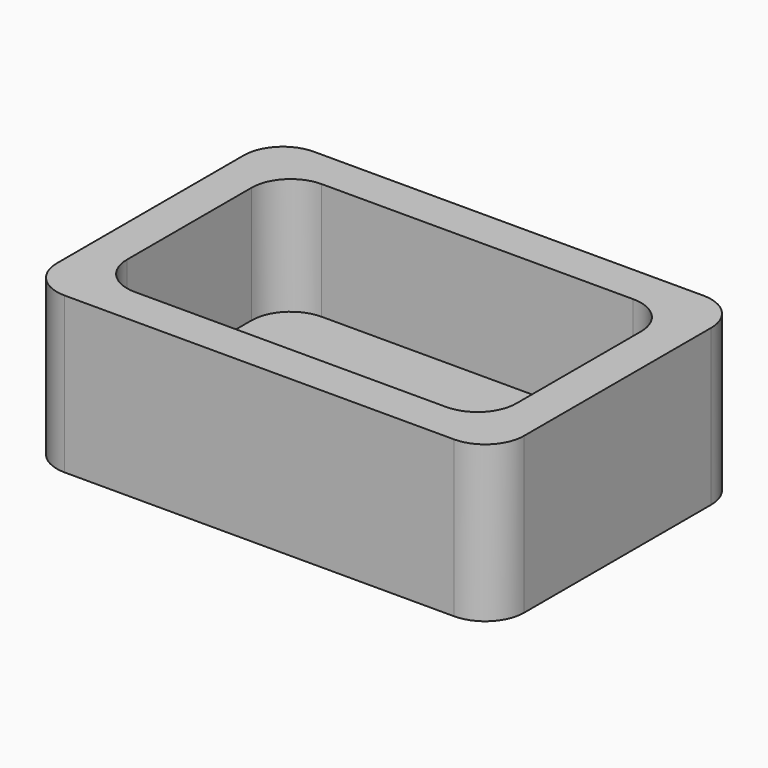
from build123d import *

# Parameters (mm, degrees)
F0_W     = 60
F0_H     = 40
F1_DEPTH = 15
F2_DEPTH = 5
F3_T     = -5
F4_R     = 5


with BuildPart() as f1:
    # F0 (on Top) → F1 (new body)
    with BuildSketch(Plane.XY):
        Rectangle(F0_W, F0_H)
    extrude(amount=F1_DEPTH)

    # F2 (add): a face of the model
    f2_faces = [f1.faces().sort_by_distance(p)[0] for p in [
        (0, 0, 15),
    ]]
    extrude(f2_faces, amount=F2_DEPTH)

    # F3
    f3_openings = [f1.faces().sort_by_distance(p)[0] for p in [
        (0, 0, 20),
    ]]
    offset(amount=F3_T, openings=f3_openings)

    # F4
    f4_edges = [f1.edges().sort_by_distance(p)[0] for p in [
        (-30, 20, 10),
        (-30, -20, 10),
        (30, -20, 10),
        (30, 20, 10),
        (25, 15, 12.5),
        (-25, 15, 12.5),
        (25, -15, 12.5),
        (-25, -15, 12.5),
    ]]
    fillet(f4_edges, radius=F4_R)


solid = f1.part
